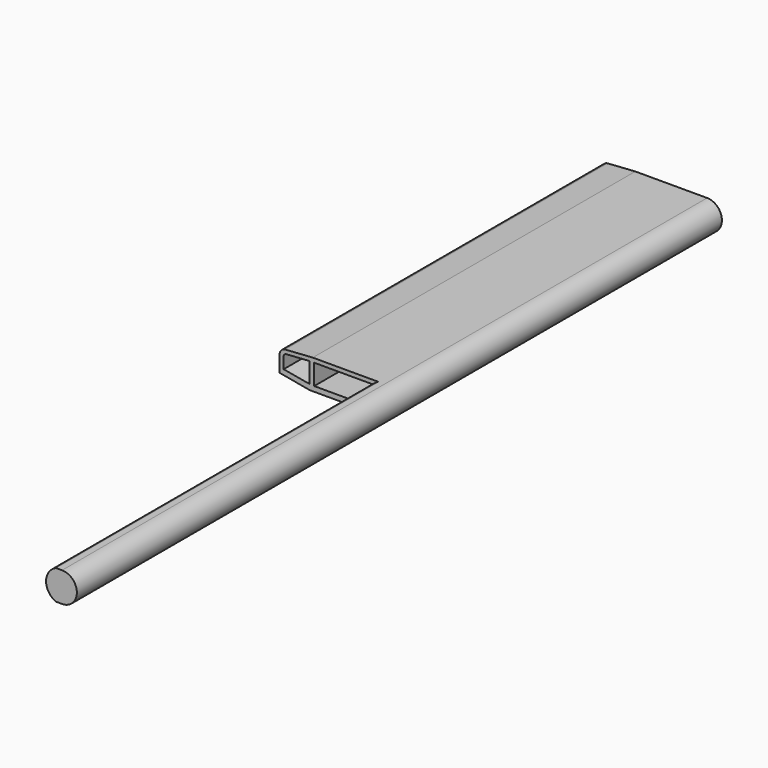
from build123d import *

# Parameters (mm, degrees)
F0_R     = 25.534109
F1_DEPTH = 1000
F2_R     = 25.534109
F3_DEPTH = 1000


with BuildPart() as f1:
    # F0 (on Front) → F1 (new body)
    with BuildSketch(Plane.XZ):
        with BuildLine():
            Line((104.816707, 42.973761), (-73.233716, 42.973761))
            Line((-73.233716, 42.973761), (-142.118799, 38.303583))
            ThreePointArc((-142.118799, 38.303583), (-151.707134, 33.25778), (-155.545548, 23.125511))
            Line((-155.545548, 23.125511), (-155.545548, -17.154747))
            Line((-155.545548, -17.154747), (-80.238977, -30.581499))
            Line((-80.238977, -30.581499), (104.816707, -30.581499))
            ThreePointArc((104.816707, -30.581499), (141.594337, 6.196131), (104.816707, 42.973761))
        make_face()
        with Locations((104.816707, 6.196131)):
            Circle(F0_R, mode=Mode.SUBTRACT)
        with BuildLine():
            Line((-145.586651, -5.955908), (-145.586651, 23.125511))
            ThreePointArc((-145.586651, 23.125511), (-143.065987, 27.255073), (-138.58139, 29.070405))
            Line((-138.58139, 29.070405), (-80.787971, 32.864923))
            Line((-80.787971, 32.864923), (-80.787971, -17.339461))
            Line((-80.787971, -17.339461), (-145.586651, -5.955908))
        make_face(mode=Mode.SUBTRACT)
        with BuildLine():
            Line((-69.743321, 32.973761), (75.557826, 32.973761))
            ThreePointArc((75.557826, 32.973761), (65.188338, 7.844157), (73.435498, -18.059658))
            Line((73.435498, -18.059658), (-69.743321, -18.059658))
            Line((-69.743321, -18.059658), (-69.743321, 32.973761))
        make_face(mode=Mode.SUBTRACT)
    extrude(amount=F1_DEPTH)

    # F2 (on face) → F3 (join)
    with BuildSketch(Plane.XZ.offset(1000)):
        with BuildLine():
            Line((89.966471, -30.581499), (104.816707, -30.581499))
            ThreePointArc((104.816707, -30.581499), (141.594337, 6.196131), (104.816707, 42.973761))
            Line((104.816707, 42.973761), (89.966471, 42.973761))
            ThreePointArc((89.966471, 42.973761), (82.202474, 38.780177), (75.557826, 32.973761))
            ThreePointArc((75.557826, 32.973761), (65.188338, 7.844157), (73.435498, -18.059658))
            ThreePointArc((73.435498, -18.059658), (80.8681, -25.420128), (89.966471, -30.581499))
        make_face()
        with Locations((104.816707, 6.196131)):
            Circle(F2_R, mode=Mode.SUBTRACT)
        with Locations((104.816707, 6.196131)):
            Circle(F2_R)
    extrude(amount=F3_DEPTH)


solid = f1.part
